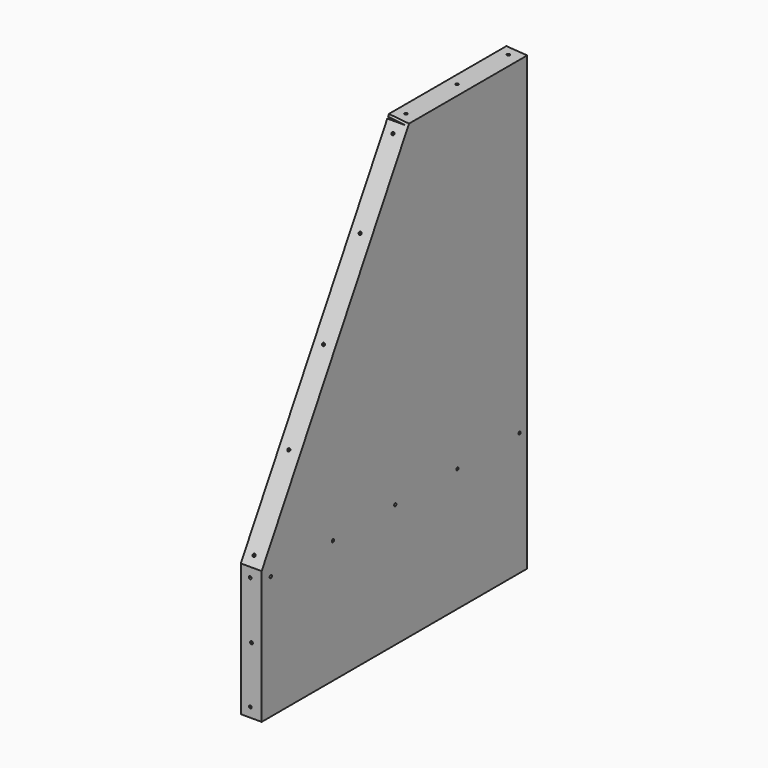
from build123d import *

# Parameters (mm, degrees)
PAD009_DEPTH    = 350
POCKET015_DEPTH = 22.001
PAD010_DEPTH    = 20
SKETCH031_R     = 1.5
POCKET016_DEPTH = 5
SKETCH032_R     = 1.5
POCKET017_DEPTH = 5
SKETCH033_R     = 1.5
POCKET018_DEPTH = 5
SKETCH035_R     = 1.5
POCKET020_DEPTH = 5
SKETCH071_R     = 1.5
POCKET047_DEPTH = 5


with BuildPart() as part:
    # Sketch028 (on Face2 of Binder006) → Pad009 (new body)
    with BuildSketch(Plane(origin=(0, -0.1, 0), x_dir=(-1, 0, 0), z_dir=(0, 1, 0))):
        Polygon((-627, -343.2), (-627, 133.2535631324), (-605.051890377, 134.7636902715), (-605.051890377, 132.7636902715), (-625, 131.2535631324), (-625, -341.2), (-605, -341.2), (-605, -343.2), align=None)
    extrude(amount=PAD009_DEPTH)

    # Sketch029 (on Face2 of Pad009) → Pocket015 (cut, through all)
    with BuildSketch(Plane.YZ.offset(627)):
        Polygon((-0.1, -203.2), (195.0232253156, 134.7636902715), (-0.1, 134.7636902715), align=None)
    extrude(amount=-POCKET015_DEPTH, mode=Mode.SUBTRACT)

    # Sketch030 (on Face9 of Pocket015) → Pad010 (join)
    with BuildSketch(Plane(origin=(625, 0, 0), x_dir=(0, -1, 0), z_dir=(-1, 0, 0))):
        Polygon((0.1, -341.2), (0.1, -203.2), (-192.9966545674, 131.2535631324), (-194.9966545674, 131.2535631324), (-1.9, -203.2), (-1.9, -341.2), align=None)
    extrude(amount=PAD010_DEPTH)

    # Sketch031 (on Face2 of Binder006) → Pocket016 (cut)
    with BuildSketch(Plane(origin=(0, -0.1, 0), x_dir=(-1, 0, 0), z_dir=(0, 1, 0))):
        with Locations((-615, -213.2)):
            Circle(SKETCH031_R)
        with Locations((-616.35879, -273.2)):
            Circle(SKETCH031_R)
        with Locations((-615, -333.2)):
            Circle(SKETCH031_R)
    extrude(amount=POCKET016_DEPTH, mode=Mode.SUBTRACT)

    # Sketch032 (on Face6 of Pocket016) → Pocket017 (cut)
    with BuildSketch(Plane(origin=(0, 87.9131353872, -50.7566197735), x_dir=(1, 0, 0), z_dir=(0, -0.8660256282, 0.4999996113))):
        with Locations((615, -166.026408)):
            Circle(SKETCH032_R)
        with Locations((615, 17.070397)):
            Circle(SKETCH032_R)
        with Locations((615, 113.6188)):
            Circle(SKETCH032_R)
        with Locations((615, 200.167202)):
            Circle(SKETCH032_R)
        with Locations((615, -74.478005)):
            Circle(SKETCH032_R)
    extrude(amount=-POCKET017_DEPTH, mode=Mode.SUBTRACT)

    # Sketch033 (on Face10 of Pocket017) → Pocket018 (cut)
    with BuildSketch(Plane.XY.offset(-341.2)):
        with Locations((615, 11.9)):
            Circle(SKETCH033_R)
        with Locations((615, 93.9)):
            Circle(SKETCH033_R)
        with Locations((615, 175.9)):
            Circle(SKETCH033_R)
        with Locations((615, 267.9)):
            Circle(SKETCH033_R)
        with Locations((615, 339.9)):
            Circle(SKETCH033_R)
    extrude(amount=-POCKET018_DEPTH, mode=Mode.SUBTRACT)

    # Sketch035 (on Face19 of Pocket018) → Pocket020 (cut)
    with BuildSketch(Plane(origin=(12.0794992713, 0, 175.5628167535), x_dir=(0.9976413465, 0, -0.0686421427), z_dir=(0.0686421427, 0, 0.9976413465))):
        with Locations((604.374314, 272.461613)):
            Circle(SKETCH035_R)
        with Locations((604.374314, 339.9)):
            Circle(SKETCH035_R)
        with Locations((604.374314, 205.023225)):
            Circle(SKETCH035_R)
    extrude(amount=-POCKET020_DEPTH, mode=Mode.SUBTRACT)

    # Sketch071 (on Face1 of Binder021) → Pocket047 (cut)
    with BuildSketch(Plane.YZ.offset(629)):
        with Locations((339.9, -213.170471)):
            Circle(SKETCH071_R)
        with Locations((257.904262, -213.170471)):
            Circle(SKETCH071_R)
        with Locations((175.908524, -213.170471)):
            Circle(SKETCH071_R)
        with Locations((93.912786, -213.170471)):
            Circle(SKETCH071_R)
        with Locations((11.917049, -213.170471)):
            Circle(SKETCH071_R)
    extrude(amount=-POCKET047_DEPTH, mode=Mode.SUBTRACT)


solid = part.part
